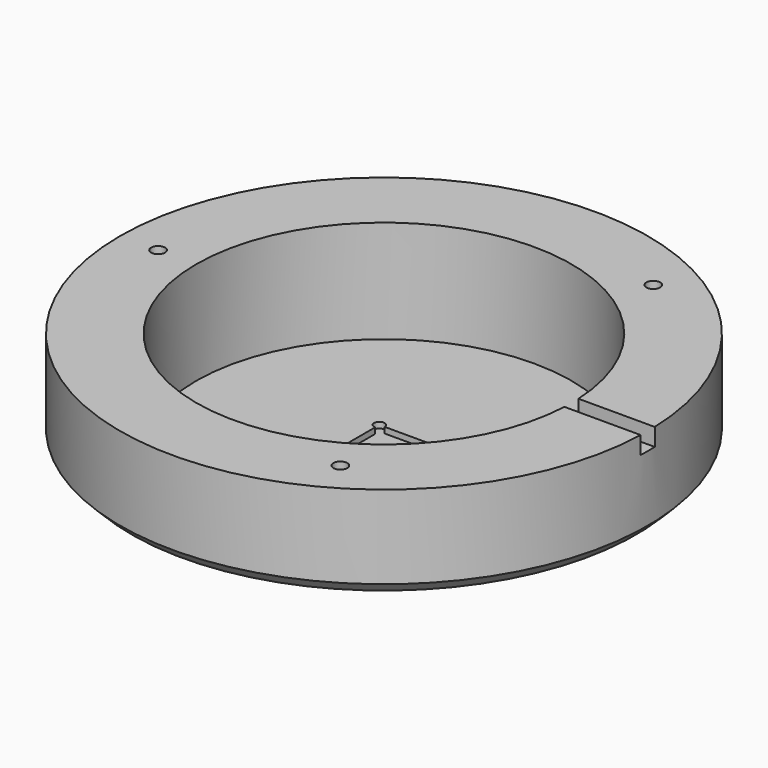
from build123d import *

# Parameters (mm, degrees)
F2_SIZE  = 2.54
F3_SIZE  = 1.27
F5_DEPTH = 1.27
F6_R     = 1.5
F7_DEPTH = 10
F8_W     = 32.420068
F8_H     = 3.81
F9_DEPTH = 3.81


with BuildPart() as f1:
    # F0 (on Front) → F1 (revolve)
    with BuildSketch(Plane.XZ):
        Polygon((-40.64, 0), (-57.15, 0), (-57.15, -20.574), (-46.101, -20.574), (-46.101, -25.654), (-3.5, -25.654), (-3.5, -22.225), (-40.64, -22.225), align=None)
    revolve(axis=Axis((0, 0, 19.796192), (0, 0, -1)))

    # F2
    f2_edges = [f1.edges().sort_by_distance(p)[0] for p in [
        (57.15, 0, -20.574),
    ]]
    chamfer(f2_edges, length=F2_SIZE)

    # F3
    f3_edges = [f1.edges().sort_by_distance(p)[0] for p in [
        (46.101, 0, -25.654),
    ]]
    chamfer(f3_edges, length=F3_SIZE)

    # F4 (on face) → F5 (cut)
    with BuildSketch(Plane.XY.offset(-22.225)):
        with BuildLine():
            Line((5.2324, 6.731), (-5.2324, 6.731))
            ThreePointArc((-5.2324, 6.731), (-7.183623, 7.539223), (-6.3754, 5.588))
            Line((-6.3754, 5.588), (-6.3754, -5.588))
            ThreePointArc((-6.3754, -5.588), (-7.183623, -7.539223), (-5.2324, -6.731))
            Line((-5.2324, -6.731), (5.2324, -6.731))
            ThreePointArc((5.2324, -6.731), (7.183623, -7.539223), (6.3754, -5.588))
            Line((6.3754, -5.588), (6.3754, 5.588))
            ThreePointArc((6.3754, 5.588), (7.183623, 7.539223), (5.2324, 6.731))
        make_face()
    extrude(amount=-F5_DEPTH, mode=Mode.SUBTRACT)

    # F6 (on face) → F7 (cut)
    with BuildSketch(Plane.XY):
        with Locations((-48.895, 0)):
            Circle(F6_R)
        with Locations((24.4475, -42.344312)):
            Circle(F6_R)
        with Locations((24.4475, 42.344312)):
            Circle(F6_R)
    extrude(amount=-F7_DEPTH, mode=Mode.SUBTRACT)

    # F8 (on face) → F9 (cut)
    with BuildSketch(Plane.XY):
        with Locations((49.065037, 0)):
            Rectangle(F8_W, F8_H)
    extrude(amount=-F9_DEPTH, mode=Mode.SUBTRACT)


solid = f1.part
